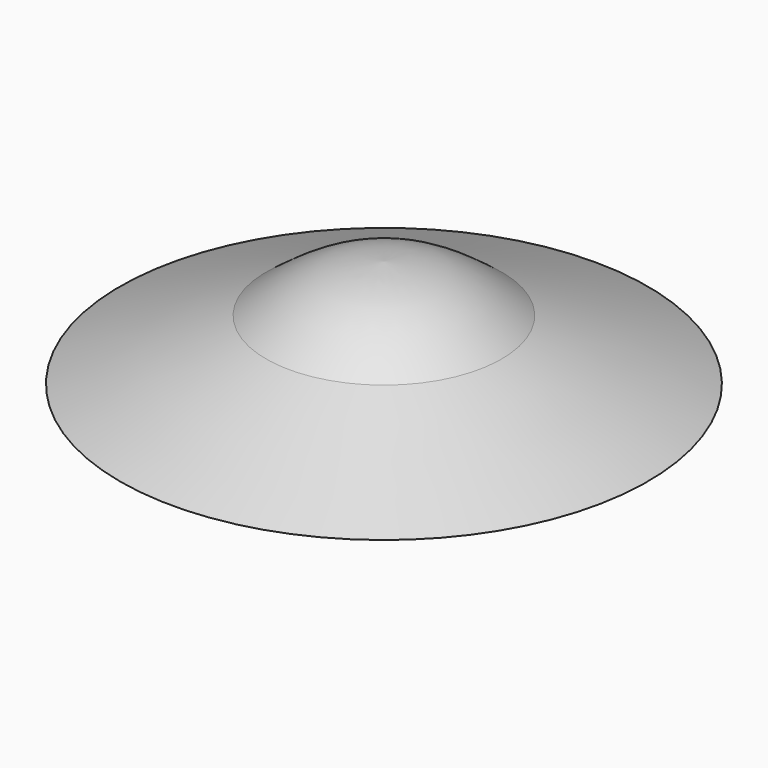
from build123d import *

# Parameters (mm, degrees)
F2_R     = 16.51
F3_DEPTH = 4.7625


with BuildPart() as f1:
    # F0 (on Right) → F1 (revolve)
    with BuildSketch(Plane.YZ):
        with BuildLine():
            Line((0, 0), (19.685, 0))
            Line((19.685, 0), (45.085, 0))
            Line((45.085, 0), (20.1255411219, 10.2973886277))
            add(Edge.make_bspline(
                [(20.1255411219, 10.2973886277), (16.8159665066, 12.836622801), (10.144785373, 17.6093042909), (3.2726021125, 18.1876412227), (0, 18.4404)],
                knots=[0, 0, 0, 0, 0.526142054, 1, 1, 1, 1], degree=3))
            Line((0, 18.4404), (0, 0))
        make_face()
    revolve(axis=Axis((0, 0, 9.2202), (0, 0, -1)))

    # F2 (on face) → F3 (cut)
    with BuildSketch(Plane(origin=(0, 0, 0), x_dir=(1, 0, 0), z_dir=(0, 0, -1))):
        Circle(F2_R)
    extrude(amount=-F3_DEPTH, mode=Mode.SUBTRACT)


solid = f1.part
